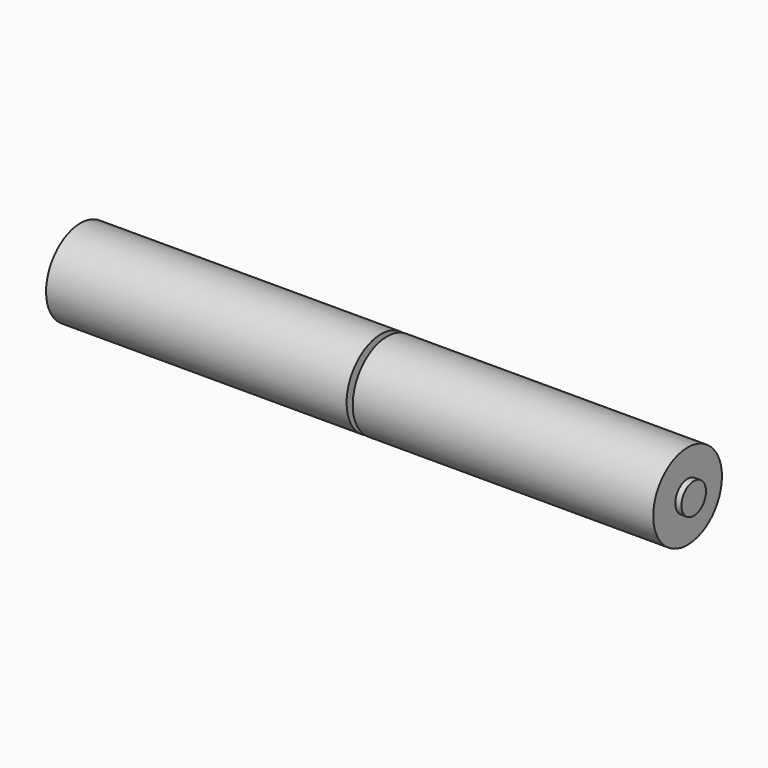
from build123d import *

# Parameters (mm, degrees)
F2_W = 1
F2_H = 2.5


with BuildPart() as f3:
    # F2 (on Front) → F3 (revolve)
    with BuildSketch(Plane.XZ):
        Polygon((-24.5, 7), (-24.5, 0), (24.5, 0), (24.5, 2.5), (24.5, 7), align=None)
        with Locations((25, 1.25)):
            Rectangle(F2_W, F2_H)
    revolve(axis=Axis((0, 0, 0), (1, 0, 0)))


with BuildPart() as f3_1:
    # F4: moved
    add(f3.part.moved(Location((-25.5, 0, 0))))


with BuildPart() as f5_1:
    # F5: copy of F3
    add(f3_1.part)


with BuildPart() as f5_1_1:
    # F6: moved
    add(f5_1.part.moved(Location((50, 0, 0))))


solid = Compound([f3_1.part, f5_1_1.part])
